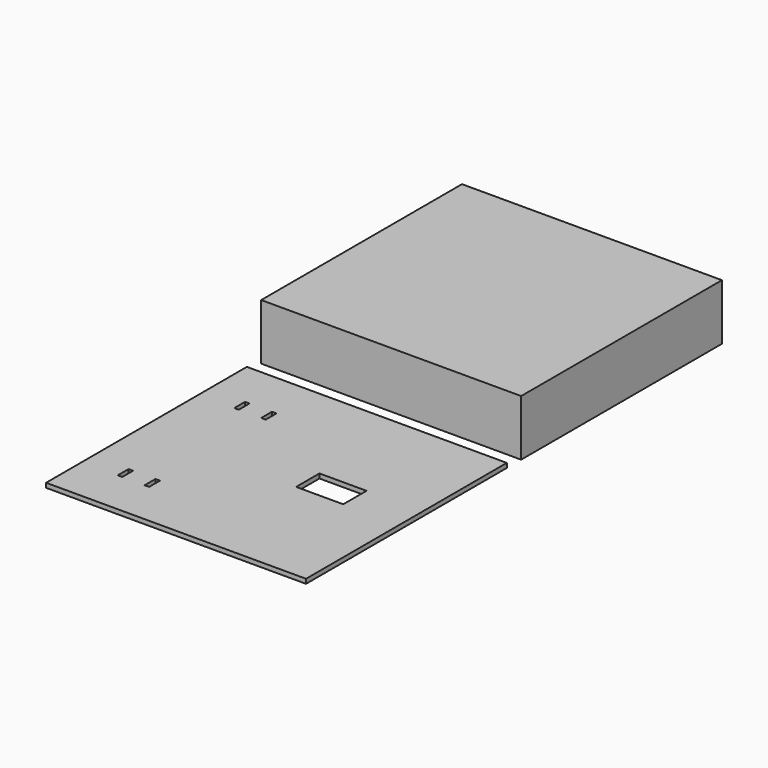
from build123d import *

# Parameters (mm, degrees)
BOX004_W                  = 6
BOX004_H                  = 2
BOX004_DEPTH              = 2
BOX003_W                  = 6
BOX003_H                  = 2
BOX003_DEPTH              = 2
FUSION001_PLACEMENT_ANGLE = 90
BOX005_W                  = 21
BOX005_H                  = 13
BOX005_DEPTH              = 2
BOX001_W                  = 6
BOX001_H                  = 2
BOX001_DEPTH              = 2
BOX002_W                  = 6
BOX002_H                  = 2
BOX002_DEPTH              = 2
FUSION_PLACEMENT_ANGLE    = 90
BOX_W                     = 116
BOX_H                     = 112
BOX_DEPTH                 = 2
BOX008_W                  = 8
BOX008_H                  = 8
BOX008_DEPTH              = 8
BOX007_W                  = 100
BOX007_H                  = 100
BOX007_DEPTH              = 15
BOX006_W                  = 116
BOX006_H                  = 112
BOX006_DEPTH              = 25


with BuildPart() as cube004:
    # Box004 → Box004 (new body)
    with BuildSketch(Plane(origin=(20, 20, 0), x_dir=(1, 0, 0), z_dir=(0, 0, 1))):
        with Locations((3, 1)):
            Rectangle(BOX004_W, BOX004_H)
    extrude(amount=BOX004_DEPTH)


with BuildPart() as fusion001:
    # Box003 → Box003 (new body)
    with BuildSketch(Plane(origin=(20, 32, 0), x_dir=(1, 0, 0), z_dir=(0, 0, 1))):
        with Locations((3, 1)):
            Rectangle(BOX003_W, BOX003_H)
    extrude(amount=BOX003_DEPTH)

    # Fusion001: union Cube004
    add(cube004.part)


with BuildPart() as fusion001_1:
    # Fusion001 placement: moved
    add(fusion001.part.moved(Location((50, 65, 0))).rotate(Axis((50, 65, 0), (0, 0, 1)), FUSION001_PLACEMENT_ANGLE))


with BuildPart() as cube005:
    # Box005 → Box005 (new body)
    with BuildSketch(Plane(origin=(70, 52, 0), x_dir=(1, 0, 0), z_dir=(0, 0, 1))):
        with Locations((10.5, 6.5)):
            Rectangle(BOX005_W, BOX005_H)
    extrude(amount=BOX005_DEPTH)


with BuildPart() as cube001:
    # Box001 → Box001 (new body)
    with BuildSketch(Plane(origin=(20, 20, 0), x_dir=(1, 0, 0), z_dir=(0, 0, 1))):
        with Locations((3, 1)):
            Rectangle(BOX001_W, BOX001_H)
    extrude(amount=BOX001_DEPTH)


with BuildPart() as fusion:
    # Box002 → Box002 (new body)
    with BuildSketch(Plane(origin=(20, 32, 0), x_dir=(1, 0, 0), z_dir=(0, 0, 1))):
        with Locations((3, 1)):
            Rectangle(BOX002_W, BOX002_H)
    extrude(amount=BOX002_DEPTH)

    # Fusion: union Cube001
    add(cube001.part)


with BuildPart() as fusion_1:
    # Fusion placement: moved
    add(fusion.part.moved(Location((50, 0, 0))).rotate(Axis((50, 0, 0), (0, 0, 1)), FUSION_PLACEMENT_ANGLE))


with BuildPart() as cut002:
    # Box → Box (new body)
    with BuildSketch(Plane.XY):
        with Locations((58, 56)):
            Rectangle(BOX_W, BOX_H)
    extrude(amount=BOX_DEPTH)

    # Cut: cut Fusion
    add(fusion_1.part, mode=Mode.SUBTRACT)

    # Cut001: cut Cube005
    add(cube005.part, mode=Mode.SUBTRACT)

    # Cut002: cut Fusion001
    add(fusion001_1.part, mode=Mode.SUBTRACT)


with BuildPart() as cube008:
    # Box008 → Box008 (new body)
    with BuildSketch(Plane(origin=(0, 55, 5), x_dir=(1, 0, 0), z_dir=(0, 0, 1))):
        with Locations((4, 4)):
            Rectangle(BOX008_W, BOX008_H)
    extrude(amount=BOX008_DEPTH)


with BuildPart() as cube007:
    # Box007 → Box007 (new body)
    with BuildSketch(Plane(origin=(8, 6, 0), x_dir=(1, 0, 0), z_dir=(0, 0, 1))):
        with Locations((50, 50)):
            Rectangle(BOX007_W, BOX007_H)
    extrude(amount=BOX007_DEPTH)


with BuildPart() as cut004:
    # Box006 → Box006 (new body)
    with BuildSketch(Plane.XY):
        with Locations((58, 56)):
            Rectangle(BOX006_W, BOX006_H)
    extrude(amount=BOX006_DEPTH)

    # Cut003: cut Cube007
    add(cube007.part, mode=Mode.SUBTRACT)

    # Cut004: cut Cube008
    add(cube008.part, mode=Mode.SUBTRACT)


with BuildPart() as cut004_1:
    # Cut004 placement: moved
    add(cut004.part.moved(Location((0, 120, 0))))


solid = Compound([cut002.part, cut004_1.part])
